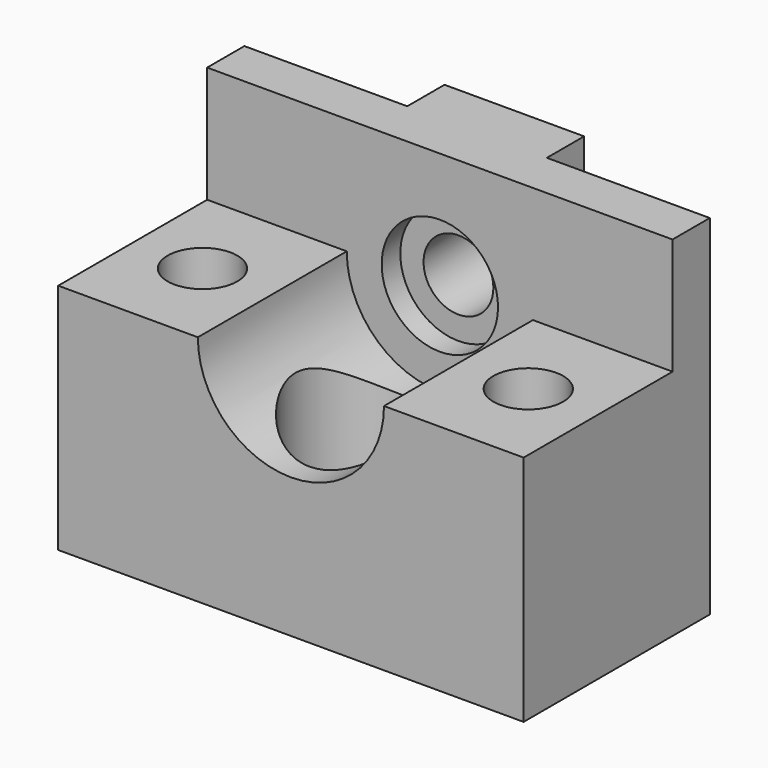
from build123d import *

# Parameters (mm, degrees)
F0_R     = 1.5
F1_DEPTH = 10
F3_DEPTH = 8
F5_DEPTH = 5
F6_R     = 1.5
F7_DEPTH = 4.001
F6_R_2   = 2.5
F8_DEPTH = 1


with BuildPart() as f1:
    # F0 (on Top) → F1 (new body)
    with BuildSketch(Plane.XY):
        with BuildLine():
            Line((10, -5), (10, 5))
            Line((10, 5), (3, 5))
            Line((3, 5), (3, 7))
            Line((3, 7), (-3, 7))
            Line((-3, 7), (-3, 5))
            Line((-3, 5), (-10, 5))
            Line((-10, 5), (-10, -5))
            Line((-10, -5), (0, -5))
            Line((0, -5), (0, -4))
            ThreePointArc((0, -4), (-3, -1), (0, 2))
            Line((0, 2), (0, 3))
            Line((0, 3), (4, 3))
            Line((4, 3), (4, -5))
            Line((4, -5), (10, -5))
        make_face()
        with Locations((-7, -1)):
            Circle(F0_R, mode=Mode.SUBTRACT)
        with Locations((7, -1)):
            Circle(F0_R, mode=Mode.SUBTRACT)
        with BuildLine():
            Line((0, -5), (4, -5))
            Line((4, -5), (4, 3))
            Line((4, 3), (0, 3))
            Line((0, 3), (0, 2))
            ThreePointArc((0, 2), (2.1213203436, 1.1213203436), (3, -1))
            ThreePointArc((3, -1), (2.1213203436, -3.1213203436), (0, -4))
            Line((0, -4), (0, -5))
        make_face()
        with BuildLine():
            Line((0, -2.5), (0, -4))
            ThreePointArc((0, -4), (2.1213203436, -3.1213203436), (3, -1))
            ThreePointArc((3, -1), (2.1213203436, 1.1213203436), (0, 2))
            Line((0, 2), (0, 0.5))
            ThreePointArc((0, 0.5), (1.0606601718, 0.0606601718), (1.5, -1))
            ThreePointArc((1.5, -1), (1.0606601718, -2.0606601718), (0, -2.5))
        make_face()
        with BuildLine():
            ThreePointArc((0, 2), (-3, -1), (0, -4))
            Line((0, -4), (0, -2.5))
            ThreePointArc((0, -2.5), (-1.5, -1), (0, 0.5))
            Line((0, 0.5), (0, 2))
        make_face()
    extrude(amount=-F1_DEPTH)

    # F0 (on Top) → F2 (revolve, cut)
    with BuildSketch(Plane.XY):
        with BuildLine():
            Line((0, -5), (4, -5))
            Line((4, -5), (4, 3))
            Line((4, 3), (0, 3))
            Line((0, 3), (0, 2))
            ThreePointArc((0, 2), (2.1213203436, 1.1213203436), (3, -1))
            ThreePointArc((3, -1), (2.1213203436, -3.1213203436), (0, -4))
            Line((0, -4), (0, -5))
        make_face()
        with BuildLine():
            Line((0, -2.5), (0, -4))
            ThreePointArc((0, -4), (2.1213203436, -3.1213203436), (3, -1))
            ThreePointArc((3, -1), (2.1213203436, 1.1213203436), (0, 2))
            Line((0, 2), (0, 0.5))
            ThreePointArc((0, 0.5), (1.0606601718, 0.0606601718), (1.5, -1))
            ThreePointArc((1.5, -1), (1.0606601718, -2.0606601718), (0, -2.5))
        make_face()
    revolve(axis=Axis((0, -1, 0), (0, 1, 0)), mode=Mode.SUBTRACT)

    # F0 (on Top) → F3 (cut)
    with BuildSketch(Plane.XY):
        with BuildLine():
            ThreePointArc((0, 2), (-3, -1), (0, -4))
            Line((0, -4), (0, -2.5))
            ThreePointArc((0, -2.5), (-1.5, -1), (0, 0.5))
            Line((0, 0.5), (0, 2))
        make_face()
        with BuildLine():
            Line((0, -2.5), (0, -4))
            ThreePointArc((0, -4), (2.1213203436, -3.1213203436), (3, -1))
            ThreePointArc((3, -1), (2.1213203436, 1.1213203436), (0, 2))
            Line((0, 2), (0, 0.5))
            ThreePointArc((0, 0.5), (1.0606601718, 0.0606601718), (1.5, -1))
            ThreePointArc((1.5, -1), (1.0606601718, -2.0606601718), (0, -2.5))
        make_face()
    extrude(amount=-F3_DEPTH, mode=Mode.SUBTRACT)

    # F4 (on face) → F5 (join)
    with BuildSketch(Plane.XY):
        Polygon((-10, 5), (-10, 3), (0, 3), (4, 3), (10, 3), (10, 5), (3, 5), (3, 7), (-3, 7), (-3, 5), align=None)
    extrude(amount=F5_DEPTH)

    # F6 (on face) → F7 (cut, through all)
    with BuildSketch(Plane.XZ.offset(-3)):
        Circle(F6_R)
    extrude(amount=-F7_DEPTH, mode=Mode.SUBTRACT)

    # F6 (on face) → F8 (cut)
    with BuildSketch(Plane.XZ.offset(-3)):
        Circle(F6_R_2)
        Circle(F6_R, mode=Mode.SUBTRACT)
    extrude(amount=-F8_DEPTH, mode=Mode.SUBTRACT)


solid = f1.part
